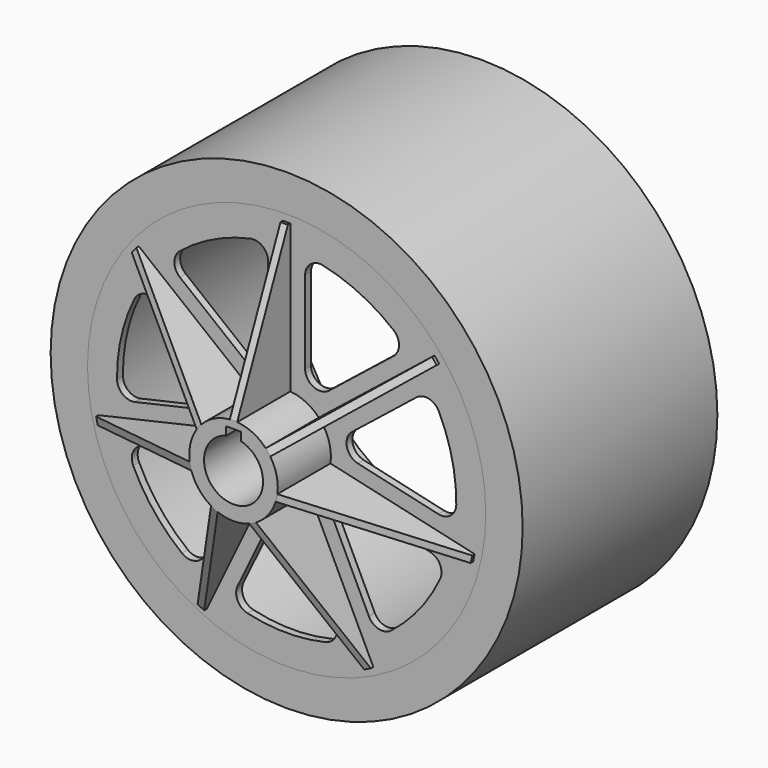
from build123d import *

# Parameters (mm, degrees)
F0_R      = 42.8625
F0_R_2    = 40.48125
F1_DEPTH  = 50.8
F2_R      = 42.8625
F3_DEPTH  = 1.5875
F4_R      = 9.525
F5_DEPTH  = 14.2875
F7_DEPTH  = 0.79375
F8_COUNT  = 7
F10_DEPTH = 66.676
F11_R     = 50.8
F11_R_2   = 42.8625
F12_DEPTH = 52.3875
F14_DEPTH = 1.5875
F15_SIZE  = 0.508


with BuildPart() as f1:
    # F0 (on Front) → F1 (new body)
    with BuildSketch(Plane.XZ):
        Circle(F0_R)
        Circle(F0_R_2, mode=Mode.SUBTRACT)
    extrude(amount=F1_DEPTH)

    # F2 (on face) → F3 (join)
    with BuildSketch(Plane.XZ.offset(50.8)):
        Circle(F2_R)
    extrude(amount=F3_DEPTH)

    # F4 (on face) → F5 (join)
    with BuildSketch(Plane.XZ.offset(52.3875)):
        Circle(F4_R)
    extrude(amount=F5_DEPTH)



with BuildPart() as f7:
    # F6 (on Right) → F7 (new body, symmetric)
    with BuildSketch(Plane.YZ):
        Polygon((-66.675, 4.5089146682), (-52.3875, 4.5089146682), (-52.3875, 41.3385), (-53.0406428571, 41.3385), (-66.675, 9.525), align=None)
    extrude(amount=F7_DEPTH, both=True)


with BuildPart() as f1_1:
    add(f1.part)

    add(f7.part)  # F8 merges F7
    # F8: F7 ×7 about axis
    f8_axis = Axis((0, -40.6418209895, 0), (0, 1, 0))
    for i in range(1, F8_COUNT):
        add(f7.part.rotate(f8_axis, i * 360 / F8_COUNT))

    # F9 (on face) → F10 (cut, through all)
    with BuildSketch(Plane.XZ.offset(66.675)):
        with BuildLine():
            Line((-1.5875, 7.9375), (-1.5875, 6.1483610621))
            ThreePointArc((-1.5875, 6.1483610621), (0, -6.35), (1.5875, 6.1483610621))
            Line((1.5875, 6.1483610621), (1.5875, 7.9375))
            Line((1.5875, 7.9375), (-1.5875, 7.9375))
        make_face()
    extrude(amount=-F10_DEPTH, mode=Mode.SUBTRACT)

    # F13 (on face) → F14 (cut, through all)
    with BuildSketch(Plane.XZ.offset(52.3875)):
        with BuildLine():
            Line((10.5528811268, -31.0603190369), (2.8605761556, -15.0870831752))
            ThreePointArc((2.8605761556, -15.0870831752), (0, -13.2896640469), (-2.8605761556, -15.0870831752))
            Line((-2.8605761556, -15.0870831752), (-10.5528811268, -31.0603190369))
            ThreePointArc((-10.5528811268, -31.0603190369), (-10.558668331, -33.8033983853), (-8.4249054446, -35.5272237094))
            ThreePointArc((-8.4249054446, -35.5272237094), (0, -36.5125), (8.4249054446, -35.5272237094))
            ThreePointArc((8.4249054446, -35.5272237094), (10.558668331, -33.8033983853), (10.5528811268, -31.0603190369))
        make_face()
        with BuildLine():
            Line((30.8635490413, -11.1152174663), (13.5790966655, -7.1701540031))
            ThreePointArc((13.5790966655, -7.1701540031), (10.3902777433, -8.2859700034), (10.0120165446, -11.643130996))
            Line((10.0120165446, -11.643130996), (17.7043215158, -27.6163668577))
            ThreePointArc((17.7043215158, -27.6163668577), (19.8453390464, -29.3311734755), (22.5234593543, -28.7377179846))
            ThreePointArc((22.5234593543, -28.7377179846), (28.5466220036, -22.7651713904), (33.0291446071, -15.5640053577))
            ThreePointArc((33.0291446071, -15.5640053577), (33.0117830976, -12.8209748473), (30.8635490413, -11.1152174663))
        make_face()
        with BuildLine():
            Line((27.9333350261, 17.1998695655), (14.0722804232, 6.1460473778))
            ThreePointArc((14.0722804232, 6.1460473778), (12.9564644229, 2.9572284557), (15.3453565787, 0.5683362998))
            Line((15.3453565787, 0.5683362998), (32.6298089546, -3.3767271634))
            ThreePointArc((32.6298089546, -3.3767271634), (35.3054013507, -2.7719766917), (36.5111998647, -0.3081244748))
            ThreePointArc((36.5111998647, -0.3081244748), (35.5970553935, 8.1247956011), (32.7617642086, 16.1192264762))
            ThreePointArc((32.7617642086, 16.1192264762), (30.6063518741, 17.8159042509), (27.9333350261, 17.1998695655))
        make_face()
        with BuildLine():
            Line((3.96875, 32.5631040011), (3.96875, 14.8341497268))
            ThreePointArc((3.96875, 14.8341497268), (5.7661691283, 11.9735735712), (9.1233301209, 12.3518347699))
            Line((9.1233301209, 12.3518347699), (22.9843847238, 23.4056569576))
            ThreePointArc((22.9843847238, 23.4056569576), (24.179776339, 25.8745750789), (23.0052621842, 28.3534930492))
            ThreePointArc((23.0052621842, 28.3534930492), (15.8421800245, 32.8966257893), (7.8241071429, 35.6643520012))
            ThreePointArc((7.8241071429, 35.6643520012), (5.1537134336, 35.03704407), (3.96875, 32.5631040011))
        make_face()
        with BuildLine():
            Line((-22.9843847238, 23.4056569576), (-9.1233301209, 12.3518347699))
            ThreePointArc((-9.1233301209, 12.3518347699), (-5.7661691283, 11.9735735712), (-3.96875, 14.8341497268))
            Line((-3.96875, 14.8341497268), (-3.96875, 32.5631040011))
            ThreePointArc((-3.96875, 32.5631040011), (-5.1537134336, 35.03704407), (-7.8241071429, 35.6643520012))
            ThreePointArc((-7.8241071429, 35.6643520012), (-15.8421800245, 32.8966257893), (-23.0052621842, 28.3534930492))
            ThreePointArc((-23.0052621842, 28.3534930492), (-24.179776339, 25.8745750789), (-22.9843847238, 23.4056569576))
        make_face()
        with BuildLine():
            Line((-32.6298089546, -3.3767271634), (-15.3453565787, 0.5683362998))
            ThreePointArc((-15.3453565787, 0.5683362998), (-12.9564644229, 2.9572284557), (-14.0722804232, 6.1460473778))
            Line((-14.0722804232, 6.1460473778), (-27.9333350261, 17.1998695655))
            ThreePointArc((-27.9333350261, 17.1998695655), (-30.6063518741, 17.8159042509), (-32.7617642086, 16.1192264762))
            ThreePointArc((-32.7617642086, 16.1192264762), (-35.5970553935, 8.1247956011), (-36.5111998647, -0.3081244748))
            ThreePointArc((-36.5111998647, -0.3081244748), (-35.3054013507, -2.7719766917), (-32.6298089546, -3.3767271634))
        make_face()
        with BuildLine():
            Line((-17.7043215158, -27.6163668577), (-10.0120165446, -11.643130996))
            ThreePointArc((-10.0120165446, -11.643130996), (-10.3902777433, -8.2859700034), (-13.5790966655, -7.1701540031))
            Line((-13.5790966655, -7.1701540031), (-30.8635490413, -11.1152174663))
            ThreePointArc((-30.8635490413, -11.1152174663), (-33.0117830976, -12.8209748473), (-33.0291446071, -15.5640053577))
            ThreePointArc((-33.0291446071, -15.5640053577), (-28.5466220036, -22.7651713904), (-22.5234593543, -28.7377179846))
            ThreePointArc((-22.5234593543, -28.7377179846), (-19.8453390464, -29.3311734755), (-17.7043215158, -27.6163668577))
        make_face()
    extrude(amount=-F14_DEPTH, mode=Mode.SUBTRACT)

    # F15
    f15_edges = [f1_1.edges().sort_by_distance(p)[0] for p in [
        (-40.48125, 0, 0),
    ]]
    chamfer(f15_edges, length=F15_SIZE)


with BuildPart() as f12:
    # F11 (on Front) → F12 (new body, through all)
    with BuildSketch(Plane.XZ):
        Circle(F11_R)
        Circle(F11_R_2, mode=Mode.SUBTRACT)
    extrude(amount=F12_DEPTH)


solid = Compound([f1_1.part, f12.part])
